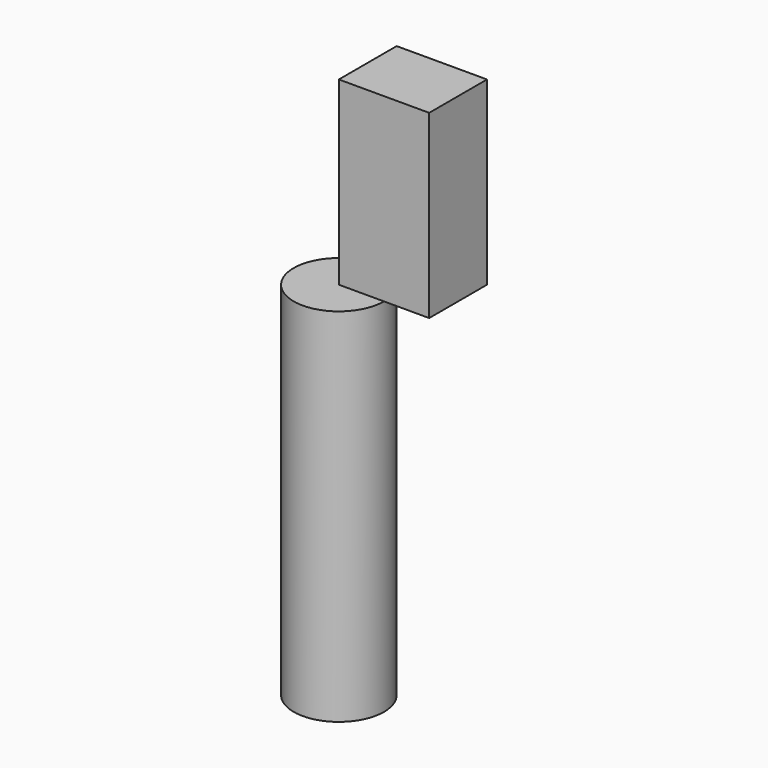
from build123d import *

# Parameters (mm, degrees)
F0_W     = 6.35
F0_H     = 50.8
F2_W     = 12.7
F2_H     = 10.16
F3_DEPTH = 25.4


with BuildPart() as f1:
    # F0 (on Front) → F1 (revolve)
    with BuildSketch(Plane.XZ):
        with Locations((3.175, 25.4)):
            Rectangle(F0_W, F0_H)
    revolve(axis=Axis((0, 0, 25.4), (0, 0, 1)))

    # F2 (on face) → F3 (join)
    with BuildSketch(Plane.XY.offset(50.8)):
        with Locations((6.35, 5.08)):
            Rectangle(F2_W, F2_H)
    extrude(amount=F3_DEPTH)


solid = f1.part
